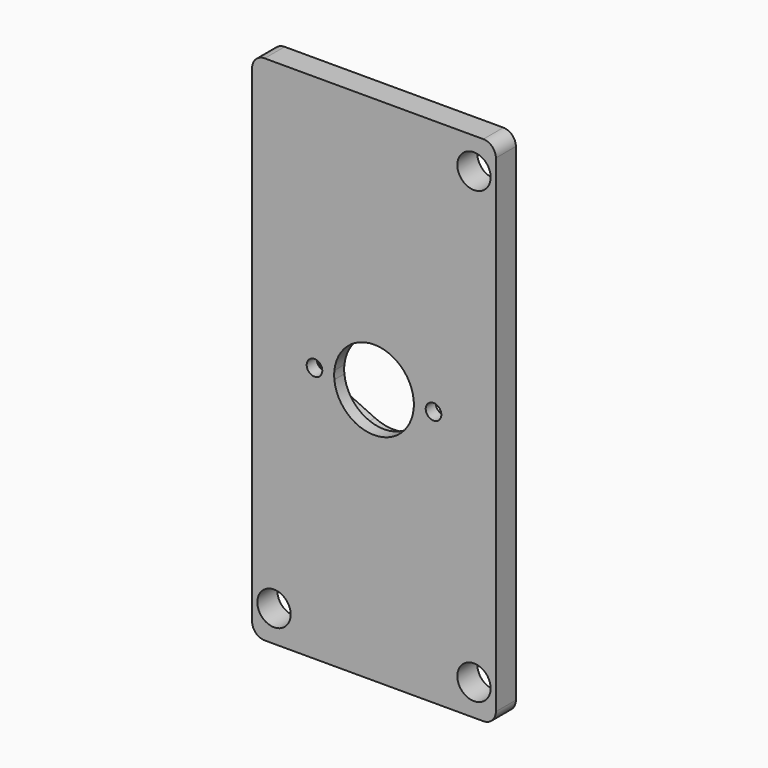
from build123d import *

# Parameters (mm, degrees)
F0_R     = 2.667
F1_DEPTH = 4
F0_R_2   = 1.25
F2_DEPTH = 2


with BuildPart() as f1:
    # F0 (on Front) → F1 (new body)
    with BuildSketch(Plane.XZ):
        with BuildLine():
            ThreePointArc((19.5, 39), (18.9142135624, 40.4142135624), (17.5, 41))
            Line((17.5, 41), (-17.5, 41))
            ThreePointArc((-17.5, 41), (-18.9142135624, 40.4142135624), (-19.5, 39))
            Line((-19.5, 39), (-19.5, -39))
            ThreePointArc((-19.5, -39), (-18.9142135624, -40.4142135624), (-17.5, -41))
            Line((-17.5, -41), (17.5, -41))
            ThreePointArc((17.5, -41), (18.9142135624, -40.4142135624), (19.5, -39))
            Line((19.5, -39), (19.5, 39))
        make_face()
        with Locations((-16, -36)):
            Circle(F0_R, mode=Mode.SUBTRACT)
        with Locations((16, -36)):
            Circle(F0_R, mode=Mode.SUBTRACT)
        with BuildLine():
            ThreePointArc((-3.0446194226, 6.5797258736), (0, 7.25), (3.0446194226, 6.5797258736))
            Line((3.0446194226, 6.5797258736), (10.8898293963, 2.9495322882))
            ThreePointArc((10.8898293963, 2.9495322882), (12.2634480585, 1.7502577613), (12.775, 0))
            ThreePointArc((12.775, 0), (12.2634480585, -1.7502577613), (10.8898293963, -2.9495322882))
            Line((10.8898293963, -2.9495322882), (3.0446194226, -6.5797258736))
            ThreePointArc((3.0446194226, -6.5797258736), (0, -7.25), (-3.0446194226, -6.5797258736))
            Line((-3.0446194226, -6.5797258736), (-10.8898293963, -2.9495322882))
            ThreePointArc((-10.8898293963, -2.9495322882), (-12.775, 0), (-10.8898293963, 2.9495322882))
            Line((-10.8898293963, 2.9495322882), (-3.0446194226, 6.5797258736))
        make_face(mode=Mode.SUBTRACT)
        with Locations((16, 36)):
            Circle(F0_R, mode=Mode.SUBTRACT)
    extrude(amount=-F1_DEPTH)

    # F0 (on Front) → F2 (join)
    with BuildSketch(Plane.XZ):
        with BuildLine():
            ThreePointArc((-6.9672244094, -2.0050645946), (-7.25, 0), (-6.9672244094, 2.0050645946))
            ThreePointArc((-6.9672244094, 2.0050645946), (-8.7642208194, 3.1597017325), (-10.8898293963, 2.9495322882))
            ThreePointArc((-10.8898293963, 2.9495322882), (-12.775, 0), (-10.8898293963, -2.9495322882))
            ThreePointArc((-10.8898293963, -2.9495322882), (-8.7642208194, -3.1597017325), (-6.9672244094, -2.0050645946))
        make_face()
        with Locations((-9.525, 0)):
            Circle(F0_R_2, mode=Mode.SUBTRACT)
        with BuildLine():
            ThreePointArc((-10.8898293963, 2.9495322882), (-8.7642208194, 3.1597017325), (-6.9672244094, 2.0050645946))
            ThreePointArc((-6.9672244094, 2.0050645946), (-5.5037383371, 4.7192546357), (-3.0446194226, 6.5797258736))
            Line((-3.0446194226, 6.5797258736), (-10.8898293963, 2.9495322882))
        make_face()
        with BuildLine():
            ThreePointArc((-3.0446194226, -6.5797258736), (-5.5037383371, -4.7192546357), (-6.9672244094, -2.0050645946))
            ThreePointArc((-6.9672244094, -2.0050645946), (-8.7642208194, -3.1597017325), (-10.8898293963, -2.9495322882))
            Line((-10.8898293963, -2.9495322882), (-3.0446194226, -6.5797258736))
        make_face()
        with BuildLine():
            ThreePointArc((6.9672244094, -2.0050645946), (6.5758581467, -1.3656728485), (6.3414041995, -0.653618986))
            ThreePointArc((6.3414041995, -0.653618986), (0, -6.375), (-6.3414041995, -0.653618986))
            ThreePointArc((-6.3414041995, -0.653618986), (-6.5758581467, -1.3656728485), (-6.9672244094, -2.0050645946))
            ThreePointArc((-6.9672244094, -2.0050645946), (-5.5037383371, -4.7192546357), (-3.0446194226, -6.5797258736))
            ThreePointArc((-3.0446194226, -6.5797258736), (0, -7.25), (3.0446194226, -6.5797258736))
            ThreePointArc((3.0446194226, -6.5797258736), (5.5037383371, -4.7192546357), (6.9672244094, -2.0050645946))
        make_face()
        with BuildLine():
            ThreePointArc((-6.3414041995, -0.653618986), (-6.375, 0), (-6.3414041995, 0.653618986))
            ThreePointArc((-6.3414041995, 0.653618986), (-6.5758581467, 1.3656728485), (-6.9672244094, 2.0050645946))
            ThreePointArc((-6.9672244094, 2.0050645946), (-7.25, 0), (-6.9672244094, -2.0050645946))
            ThreePointArc((-6.9672244094, -2.0050645946), (-6.5758581467, -1.3656728485), (-6.3414041995, -0.653618986))
        make_face()
        with BuildLine():
            ThreePointArc((-6.3414041995, 0.653618986), (0, 6.375), (6.3414041995, 0.653618986))
            ThreePointArc((6.3414041995, 0.653618986), (6.5758581467, 1.3656728485), (6.9672244094, 2.0050645946))
            ThreePointArc((6.9672244094, 2.0050645946), (5.5037383371, 4.7192546357), (3.0446194226, 6.5797258736))
            ThreePointArc((3.0446194226, 6.5797258736), (0, 7.25), (-3.0446194226, 6.5797258736))
            ThreePointArc((-3.0446194226, 6.5797258736), (-5.5037383371, 4.7192546357), (-6.9672244094, 2.0050645946))
            ThreePointArc((-6.9672244094, 2.0050645946), (-6.5758581467, 1.3656728485), (-6.3414041995, 0.653618986))
        make_face()
        with BuildLine():
            ThreePointArc((6.3414041995, 0.653618986), (6.3665955098, 0.3272409115), (6.375, 0))
            ThreePointArc((6.375, 0), (6.3665955098, -0.3272409115), (6.3414041995, -0.653618986))
            ThreePointArc((6.3414041995, -0.653618986), (6.5758581467, -1.3656728485), (6.9672244094, -2.0050645946))
            ThreePointArc((6.9672244094, -2.0050645946), (7.1789580361, -1.0124532166), (7.25, 0))
            ThreePointArc((7.25, 0), (7.1789580361, 1.0124532166), (6.9672244094, 2.0050645946))
            ThreePointArc((6.9672244094, 2.0050645946), (6.5758581467, 1.3656728485), (6.3414041995, 0.653618986))
        make_face()
        with BuildLine():
            ThreePointArc((10.8898293963, 2.9495322882), (8.7642208194, 3.1597017325), (6.9672244094, 2.0050645946))
            ThreePointArc((6.9672244094, 2.0050645946), (7.1789580361, 1.0124532166), (7.25, 0))
            ThreePointArc((7.25, 0), (7.1789580361, -1.0124532166), (6.9672244094, -2.0050645946))
            ThreePointArc((6.9672244094, -2.0050645946), (8.7642208194, -3.1597017325), (10.8898293963, -2.9495322882))
            ThreePointArc((10.8898293963, -2.9495322882), (12.2634480585, -1.7502577613), (12.775, 0))
            ThreePointArc((12.775, 0), (12.2634480585, 1.7502577613), (10.8898293963, 2.9495322882))
        make_face()
        with Locations((9.525, 0)):
            Circle(F0_R_2, mode=Mode.SUBTRACT)
        with BuildLine():
            ThreePointArc((10.8898293963, -2.9495322882), (8.7642208194, -3.1597017325), (6.9672244094, -2.0050645946))
            ThreePointArc((6.9672244094, -2.0050645946), (5.5037383371, -4.7192546357), (3.0446194226, -6.5797258736))
            Line((3.0446194226, -6.5797258736), (10.8898293963, -2.9495322882))
        make_face()
        with BuildLine():
            ThreePointArc((3.0446194226, 6.5797258736), (5.5037383371, 4.7192546357), (6.9672244094, 2.0050645946))
            ThreePointArc((6.9672244094, 2.0050645946), (8.7642208194, 3.1597017325), (10.8898293963, 2.9495322882))
            Line((10.8898293963, 2.9495322882), (3.0446194226, 6.5797258736))
        make_face()
    extrude(amount=-F2_DEPTH)


solid = f1.part
